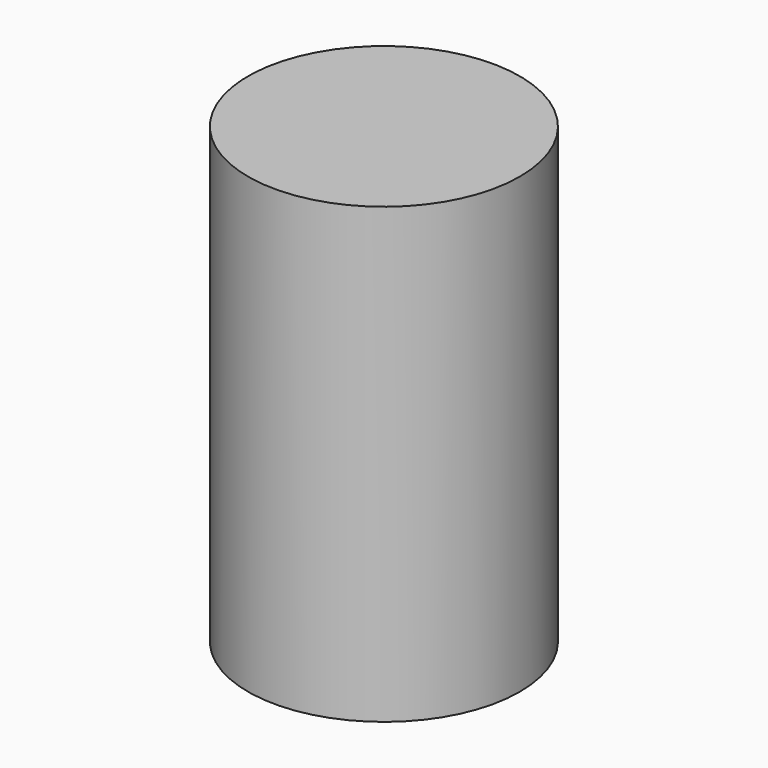
from build123d import *

# Parameters (mm, degrees)
CYLINDER_R     = 4.4958
CYLINDER_DEPTH = 15


with BuildPart() as part:
    # Cylinder → Cylinder (new body)
    with BuildSketch(Plane.XY.offset(-2.5)):
        Circle(CYLINDER_R)
    extrude(amount=CYLINDER_DEPTH)


solid = part.part
